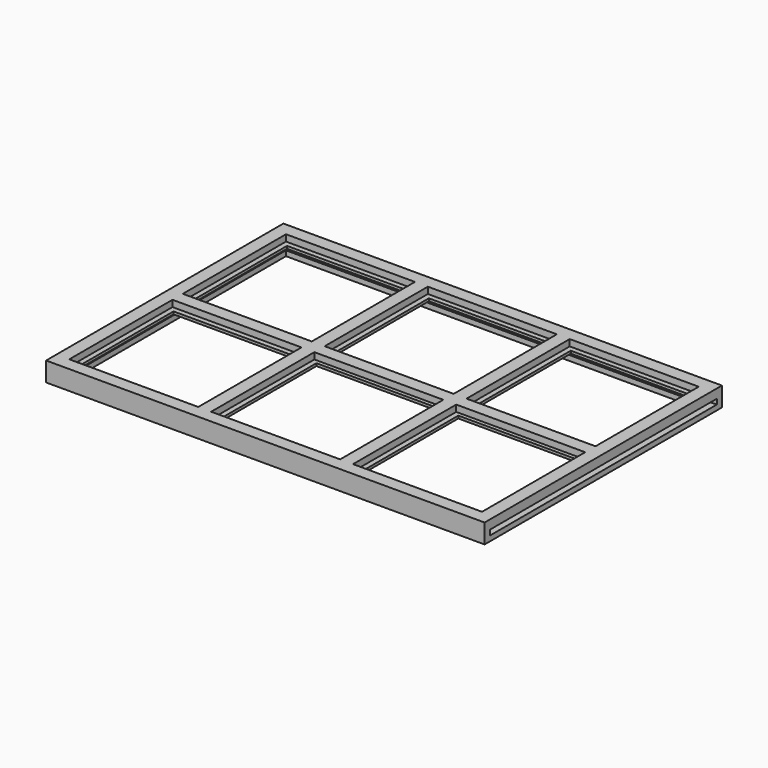
from build123d import *

# Parameters (mm, degrees)
BOX038_W     = 92
BOX038_H     = 92
BOX038_DEPTH = 24
BOX034_W     = 92
BOX034_H     = 92
BOX034_DEPTH = 24
BOX036_W     = 92
BOX036_H     = 92
BOX036_DEPTH = 24
BOX037_W     = 92
BOX037_H     = 92
BOX037_DEPTH = 24
BOX035_W     = 92
BOX035_H     = 92
BOX035_DEPTH = 24
BOX032_W     = 92
BOX032_H     = 92
BOX032_DEPTH = 24
BOX030_W     = 320
BOX030_H     = 210
BOX030_DEPTH = 2
BOX039_W     = 335
BOX039_H     = 220
BOX039_DEPTH = 4
BOX031_W     = 10
BOX031_H     = 210
BOX031_DEPTH = 7
BOX028_W     = 340
BOX028_H     = 10
BOX028_DEPTH = 7
BOX027_W     = 10
BOX027_H     = 210
BOX027_DEPTH = 15
BOX033_W     = 10
BOX033_H     = 210
BOX033_DEPTH = 15
BOX026_W     = 340
BOX026_H     = 10
BOX026_DEPTH = 15
BOX025_W     = 340
BOX025_H     = 10
BOX025_DEPTH = 15
BOX029_W     = 10
BOX029_H     = 210
BOX029_DEPTH = 7


with BuildPart() as obj1:
    # Box038 → Box038 (new body)
    with BuildSketch(Plane(origin=(14, 124, 0), x_dir=(1, 0, 0), z_dir=(0, 0, 1))):
        with Locations((46, 46)):
            Rectangle(BOX038_W, BOX038_H)
    extrude(amount=BOX038_DEPTH)


with BuildPart() as obj2:
    # Box034 → Box034 (new body)
    with BuildSketch(Plane(origin=(124, 124, 0), x_dir=(1, 0, 0), z_dir=(0, 0, 1))):
        with Locations((46, 46)):
            Rectangle(BOX034_W, BOX034_H)
    extrude(amount=BOX034_DEPTH)


with BuildPart() as obj3:
    # Box036 → Box036 (new body)
    with BuildSketch(Plane(origin=(234, 124, 0), x_dir=(1, 0, 0), z_dir=(0, 0, 1))):
        with Locations((46, 46)):
            Rectangle(BOX036_W, BOX036_H)
    extrude(amount=BOX036_DEPTH)


with BuildPart() as obj4:
    # Box037 → Box037 (new body)
    with BuildSketch(Plane(origin=(234, 15, 0), x_dir=(1, 0, 0), z_dir=(0, 0, 1))):
        with Locations((46, 46)):
            Rectangle(BOX037_W, BOX037_H)
    extrude(amount=BOX037_DEPTH)


with BuildPart() as obj5:
    # Box035 → Box035 (new body)
    with BuildSketch(Plane(origin=(124, 15, 0), x_dir=(1, 0, 0), z_dir=(0, 0, 1))):
        with Locations((46, 46)):
            Rectangle(BOX035_W, BOX035_H)
    extrude(amount=BOX035_DEPTH)


with BuildPart() as obj6:
    # Box032 → Box032 (new body)
    with BuildSketch(Plane(origin=(14, 14, 0), x_dir=(1, 0, 0), z_dir=(0, 0, 1))):
        with Locations((46, 46)):
            Rectangle(BOX032_W, BOX032_H)
    extrude(amount=BOX032_DEPTH)


with BuildPart() as obj7:
    # Box030 → Box030 (new body)
    with BuildSketch(Plane(origin=(10, 10, 8), x_dir=(1, 0, 0), z_dir=(0, 0, 1))):
        with Locations((160, 105)):
            Rectangle(BOX030_W, BOX030_H)
    extrude(amount=BOX030_DEPTH)


with BuildPart() as obj8:
    # Box039 → Box039 (new body)
    with BuildSketch(Plane(origin=(5, 5, 4), x_dir=(1, 0, 0), z_dir=(0, 0, 1))):
        with Locations((167.5, 110)):
            Rectangle(BOX039_W, BOX039_H)
    extrude(amount=BOX039_DEPTH)


with BuildPart() as obj9:
    # Box031 → Box031 (new body)
    with BuildSketch(Plane(origin=(220, 10, 8), x_dir=(1, 0, 0), z_dir=(0, 0, 1))):
        with Locations((5, 105)):
            Rectangle(BOX031_W, BOX031_H)
    extrude(amount=BOX031_DEPTH)


with BuildPart() as base007:
    # Box028 → Box028 (new body)
    with BuildSketch(Plane(origin=(0, 110, 8), x_dir=(1, 0, 0), z_dir=(0, 0, 1))):
        with Locations((170, 5)):
            Rectangle(BOX028_W, BOX028_H)
    extrude(amount=BOX028_DEPTH)


with BuildPart() as obj10:
    # Box027 → Box027 (new body)
    with BuildSketch(Plane(origin=(330, 10, 0), x_dir=(1, 0, 0), z_dir=(0, 0, 1))):
        with Locations((5, 105)):
            Rectangle(BOX027_W, BOX027_H)
    extrude(amount=BOX027_DEPTH)


with BuildPart() as obj11:
    # Box033 → Box033 (new body)
    with BuildSketch(Plane(origin=(0, 10, 0), x_dir=(1, 0, 0), z_dir=(0, 0, 1))):
        with Locations((5, 105)):
            Rectangle(BOX033_W, BOX033_H)
    extrude(amount=BOX033_DEPTH)


with BuildPart() as base006:
    # Box026 → Box026 (new body)
    with BuildSketch(Plane(origin=(0, 220, 0), x_dir=(1, 0, 0), z_dir=(0, 0, 1))):
        with Locations((170, 5)):
            Rectangle(BOX026_W, BOX026_H)
    extrude(amount=BOX026_DEPTH)


with BuildPart() as base005:
    # Box025 → Box025 (new body)
    with BuildSketch(Plane.XY):
        with Locations((170, 5)):
            Rectangle(BOX025_W, BOX025_H)
    extrude(amount=BOX025_DEPTH)


with BuildPart() as baseoriginal:
    # Box029 → Box029 (new body)
    with BuildSketch(Plane(origin=(110, 10, 8), x_dir=(1, 0, 0), z_dir=(0, 0, 1))):
        with Locations((5, 105)):
            Rectangle(BOX029_W, BOX029_H)
    extrude(amount=BOX029_DEPTH)

    # Fusion003: union obj9, base007, obj10, obj11, base006, base005
    add(obj9.part)
    add(base007.part)
    add(obj10.part)
    add(obj11.part)
    add(base006.part)
    add(base005.part)

    # Cut012: cut obj8
    add(obj8.part, mode=Mode.SUBTRACT)

    # Fusion002: union obj7
    add(obj7.part)

    # Cut008: cut obj6
    add(obj6.part, mode=Mode.SUBTRACT)

    # Cut009: cut obj5
    add(obj5.part, mode=Mode.SUBTRACT)

    # Cut014: cut obj4
    add(obj4.part, mode=Mode.SUBTRACT)

    # Cut010: cut obj3
    add(obj3.part, mode=Mode.SUBTRACT)

    # Cut011: cut obj2
    add(obj2.part, mode=Mode.SUBTRACT)

    # Cut013: cut obj1
    add(obj1.part, mode=Mode.SUBTRACT)


with BuildPart() as baseoriginal_1:
    # Cut013 placement: moved
    add(baseoriginal.part.moved(Location((353, 251, 0))))


solid = baseoriginal_1.part
